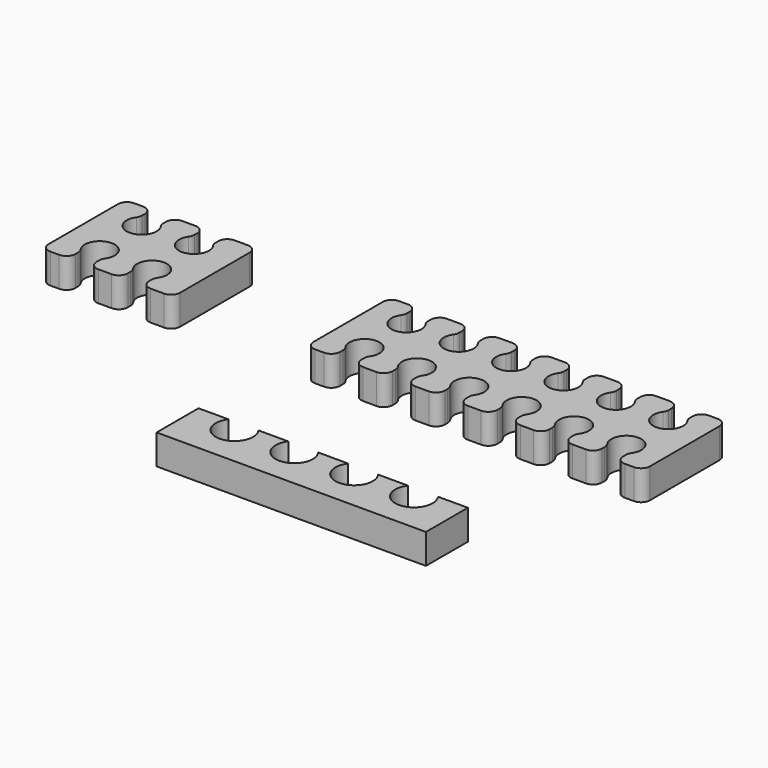
from build123d import *

# Parameters (mm, degrees)
F1_DEPTH = 4


with BuildPart() as f1:
    # F0 (on Top) → F1 (new body)
    with BuildSketch(Plane.XY):
        with BuildLine():
            ThreePointArc((8, 7.004538), (6.003411, 3), (4.006822, 7.004538))
            Line((4.006822, 7.004538), (0, 7.004538))
            Line((0, 7.004538), (0, 0))
            Line((0, 0), (36.006822, 0))
            Line((36.006822, 0), (36.006822, 7.004538))
            Line((36.006822, 7.004538), (32, 7.004538))
            ThreePointArc((32, 7.004538), (30.003411, 3), (28.006822, 7.004538))
            Line((28.006822, 7.004538), (24, 7.004538))
            ThreePointArc((24, 7.004538), (22.003411, 3), (20.006822, 7.004538))
            Line((20.006822, 7.004538), (16, 7.004538))
            ThreePointArc((16, 7.004538), (14.003411, 3), (12.006822, 7.004538))
            Line((12.006822, 7.004538), (8, 7.004538))
        make_face()
        with BuildLine():
            ThreePointArc((6.633883, 36.65344), (5, 33.5), (3.366117, 36.65344))
            ThreePointArc((3.366117, 36.65344), (3.529551, 36.982459), (3.585786, 37.345505))
            Line((3.585786, 37.345505), (3.585786, 37.8))
            ThreePointArc((3.585786, 37.8), (3.234315, 38.648528), (2.385786, 39))
            Line((2.385786, 39), (1.5, 39))
            Line((1.5, 39), (1.2, 39))
            ThreePointArc((1.2, 39), (0.351472, 38.648528), (0, 37.8))
            Line((0, 37.8), (0, 26.2))
            ThreePointArc((0, 26.2), (0.351472, 25.351472), (1.2, 25))
            Line((1.2, 25), (1.5, 25))
            Line((1.5, 25), (2.385786, 25))
            ThreePointArc((2.385786, 25), (3.234315, 25.351472), (3.585786, 26.2))
            Line((3.585786, 26.2), (3.585786, 26.654495))
            ThreePointArc((3.585786, 26.654495), (3.529551, 27.017541), (3.366117, 27.34656))
            ThreePointArc((3.366117, 27.34656), (5, 30.5), (6.633883, 27.34656))
            ThreePointArc((6.633883, 27.34656), (6.470449, 27.017541), (6.414214, 26.654495))
            Line((6.414214, 26.654495), (6.414214, 26.2))
            ThreePointArc((6.414214, 26.2), (6.765685, 25.351472), (7.614214, 25))
            Line((7.614214, 25), (8.5, 25))
            Line((8.5, 25), (9.385786, 25))
            ThreePointArc((9.385786, 25), (10.234315, 25.351472), (10.585786, 26.2))
            Line((10.585786, 26.2), (10.585786, 26.654495))
            ThreePointArc((10.585786, 26.654495), (10.529551, 27.017541), (10.366117, 27.34656))
            ThreePointArc((10.366117, 27.34656), (12, 30.5), (13.633883, 27.34656))
            ThreePointArc((13.633883, 27.34656), (13.470449, 27.017541), (13.414214, 26.654495))
            Line((13.414214, 26.654495), (13.414214, 26.2))
            ThreePointArc((13.414214, 26.2), (13.765685, 25.351472), (14.614214, 25))
            Line((14.614214, 25), (15.5, 25))
            Line((15.5, 25), (16.385786, 25))
            ThreePointArc((16.385786, 25), (17.234315, 25.351472), (17.585786, 26.2))
            Line((17.585786, 26.2), (17.585786, 26.654495))
            ThreePointArc((17.585786, 26.654495), (17.529551, 27.017541), (17.366117, 27.34656))
            ThreePointArc((17.366117, 27.34656), (19, 30.5), (20.633883, 27.34656))
            ThreePointArc((20.633883, 27.34656), (20.470449, 27.017541), (20.414214, 26.654495))
            Line((20.414214, 26.654495), (20.414214, 26.2))
            ThreePointArc((20.414214, 26.2), (20.765685, 25.351472), (21.614214, 25))
            Line((21.614214, 25), (22.5, 25))
            Line((22.5, 25), (23.385786, 25))
            ThreePointArc((23.385786, 25), (24.234315, 25.351472), (24.585786, 26.2))
            Line((24.585786, 26.2), (24.585786, 26.654495))
            ThreePointArc((24.585786, 26.654495), (24.529551, 27.017541), (24.366117, 27.34656))
            ThreePointArc((24.366117, 27.34656), (26, 30.5), (27.633883, 27.34656))
            ThreePointArc((27.633883, 27.34656), (27.470449, 27.017541), (27.414214, 26.654495))
            Line((27.414214, 26.654495), (27.414214, 26.2))
            ThreePointArc((27.414214, 26.2), (27.765685, 25.351472), (28.614214, 25))
            Line((28.614214, 25), (29.5, 25))
            Line((29.5, 25), (30.385786, 25))
            ThreePointArc((30.385786, 25), (31.234315, 25.351472), (31.585786, 26.2))
            Line((31.585786, 26.2), (31.585786, 26.654495))
            ThreePointArc((31.585786, 26.654495), (31.529551, 27.017541), (31.366117, 27.34656))
            ThreePointArc((31.366117, 27.34656), (33, 30.5), (34.633883, 27.34656))
            ThreePointArc((34.633883, 27.34656), (34.470449, 27.017541), (34.414214, 26.654495))
            Line((34.414214, 26.654495), (34.414214, 26.2))
            ThreePointArc((34.414214, 26.2), (34.765685, 25.351472), (35.614214, 25))
            Line((35.614214, 25), (36.5, 25))
            Line((36.5, 25), (37.385786, 25))
            ThreePointArc((37.385786, 25), (38.234315, 25.351472), (38.585786, 26.2))
            Line((38.585786, 26.2), (38.585786, 26.654495))
            ThreePointArc((38.585786, 26.654495), (38.529551, 27.017541), (38.366117, 27.34656))
            ThreePointArc((38.366117, 27.34656), (40, 30.5), (41.633883, 27.34656))
            ThreePointArc((41.633883, 27.34656), (41.470449, 27.017541), (41.414214, 26.654495))
            Line((41.414214, 26.654495), (41.414214, 26.2))
            ThreePointArc((41.414214, 26.2), (41.765685, 25.351472), (42.614214, 25))
            Line((42.614214, 25), (43.5, 25))
            Line((43.5, 25), (43.8, 25))
            ThreePointArc((43.8, 25), (44.648528, 25.351472), (45, 26.2))
            Line((45, 26.2), (45, 37.8))
            ThreePointArc((45, 37.8), (44.648528, 38.648528), (43.8, 39))
            Line((43.8, 39), (43.5, 39))
            Line((43.5, 39), (42.614214, 39))
            ThreePointArc((42.614214, 39), (41.765685, 38.648528), (41.414214, 37.8))
            Line((41.414214, 37.8), (41.414214, 37.345505))
            ThreePointArc((41.414214, 37.345505), (41.470449, 36.982459), (41.633883, 36.65344))
            ThreePointArc((41.633883, 36.65344), (40, 33.5), (38.366117, 36.65344))
            ThreePointArc((38.366117, 36.65344), (38.529551, 36.982459), (38.585786, 37.345505))
            Line((38.585786, 37.345505), (38.585786, 37.8))
            ThreePointArc((38.585786, 37.8), (38.234315, 38.648528), (37.385786, 39))
            Line((37.385786, 39), (36.5, 39))
            Line((36.5, 39), (35.614214, 39))
            ThreePointArc((35.614214, 39), (34.765685, 38.648528), (34.414214, 37.8))
            Line((34.414214, 37.8), (34.414214, 37.345505))
            ThreePointArc((34.414214, 37.345505), (34.470449, 36.982459), (34.633883, 36.65344))
            ThreePointArc((34.633883, 36.65344), (33, 33.5), (31.366117, 36.65344))
            ThreePointArc((31.366117, 36.65344), (31.529551, 36.982459), (31.585786, 37.345505))
            Line((31.585786, 37.345505), (31.585786, 37.8))
            ThreePointArc((31.585786, 37.8), (31.234315, 38.648528), (30.385786, 39))
            Line((30.385786, 39), (29.5, 39))
            Line((29.5, 39), (28.614214, 39))
            ThreePointArc((28.614214, 39), (27.765685, 38.648528), (27.414214, 37.8))
            Line((27.414214, 37.8), (27.414214, 37.345505))
            ThreePointArc((27.414214, 37.345505), (27.470449, 36.982459), (27.633883, 36.65344))
            ThreePointArc((27.633883, 36.65344), (26, 33.5), (24.366117, 36.65344))
            ThreePointArc((24.366117, 36.65344), (24.529551, 36.982459), (24.585786, 37.345505))
            Line((24.585786, 37.345505), (24.585786, 37.8))
            ThreePointArc((24.585786, 37.8), (24.234315, 38.648528), (23.385786, 39))
            Line((23.385786, 39), (22.5, 39))
            Line((22.5, 39), (21.614214, 39))
            ThreePointArc((21.614214, 39), (20.765685, 38.648528), (20.414214, 37.8))
            Line((20.414214, 37.8), (20.414214, 37.345505))
            ThreePointArc((20.414214, 37.345505), (20.470449, 36.982459), (20.633883, 36.65344))
            ThreePointArc((20.633883, 36.65344), (19, 33.5), (17.366117, 36.65344))
            ThreePointArc((17.366117, 36.65344), (17.529551, 36.982459), (17.585786, 37.345505))
            Line((17.585786, 37.345505), (17.585786, 37.8))
            ThreePointArc((17.585786, 37.8), (17.234315, 38.648528), (16.385786, 39))
            Line((16.385786, 39), (15.5, 39))
            Line((15.5, 39), (14.614214, 39))
            ThreePointArc((14.614214, 39), (13.765685, 38.648528), (13.414214, 37.8))
            Line((13.414214, 37.8), (13.414214, 37.345505))
            ThreePointArc((13.414214, 37.345505), (13.470449, 36.982459), (13.633883, 36.65344))
            ThreePointArc((13.633883, 36.65344), (12, 33.5), (10.366117, 36.65344))
            ThreePointArc((10.366117, 36.65344), (10.529551, 36.982459), (10.585786, 37.345505))
            Line((10.585786, 37.345505), (10.585786, 37.8))
            ThreePointArc((10.585786, 37.8), (10.234315, 38.648528), (9.385786, 39))
            Line((9.385786, 39), (8.5, 39))
            Line((8.5, 39), (7.614214, 39))
            ThreePointArc((7.614214, 39), (6.765685, 38.648528), (6.414214, 37.8))
            Line((6.414214, 37.8), (6.414214, 37.345505))
            ThreePointArc((6.414214, 37.345505), (6.470449, 36.982459), (6.633883, 36.65344))
        make_face()
        with BuildLine():
            ThreePointArc((-31.815485, 26.654495), (-31.87172, 27.017541), (-32.035155, 27.34656))
            ThreePointArc((-32.035155, 27.34656), (-30.401271, 30.5), (-28.767388, 27.34656))
            ThreePointArc((-28.767388, 27.34656), (-28.930822, 27.017541), (-28.987058, 26.654495))
            Line((-28.987058, 26.654495), (-28.987058, 26.2))
            ThreePointArc((-28.987058, 26.2), (-28.635586, 25.351472), (-27.787058, 25))
            Line((-27.787058, 25), (-26.901271, 25))
            Line((-26.901271, 25), (-26.015485, 25))
            ThreePointArc((-26.015485, 25), (-25.166957, 25.351472), (-24.815485, 26.2))
            Line((-24.815485, 26.2), (-24.815485, 26.654495))
            ThreePointArc((-24.815485, 26.654495), (-24.87172, 27.017541), (-25.035155, 27.34656))
            ThreePointArc((-25.035155, 27.34656), (-23.401271, 30.5), (-21.767388, 27.34656))
            ThreePointArc((-21.767388, 27.34656), (-21.930822, 27.017541), (-21.987058, 26.654495))
            Line((-21.987058, 26.654495), (-21.987058, 26.2))
            ThreePointArc((-21.987058, 26.2), (-21.635586, 25.351472), (-20.787058, 25))
            Line((-20.787058, 25), (-19.901271, 25))
            Line((-19.901271, 25), (-19.015485, 25))
            ThreePointArc((-19.015485, 25), (-18.166957, 25.351472), (-17.815485, 26.2))
            Line((-17.815485, 26.2), (-17.815485, 37.8))
            ThreePointArc((-17.815485, 37.8), (-18.166957, 38.648528), (-19.015485, 39))
            Line((-19.015485, 39), (-19.901271, 39))
            Line((-19.901271, 39), (-20.787058, 39))
            ThreePointArc((-20.787058, 39), (-21.635586, 38.648528), (-21.987058, 37.8))
            Line((-21.987058, 37.8), (-21.987058, 37.345505))
            ThreePointArc((-21.987058, 37.345505), (-21.930822, 36.982459), (-21.767388, 36.65344))
            ThreePointArc((-21.767388, 36.65344), (-23.401271, 33.5), (-25.035155, 36.65344))
            ThreePointArc((-25.035155, 36.65344), (-24.87172, 36.982459), (-24.815485, 37.345505))
            Line((-24.815485, 37.345505), (-24.815485, 37.8))
            ThreePointArc((-24.815485, 37.8), (-25.166957, 38.648528), (-26.015485, 39))
            Line((-26.015485, 39), (-26.901271, 39))
            Line((-26.901271, 39), (-27.787058, 39))
            ThreePointArc((-27.787058, 39), (-28.635586, 38.648528), (-28.987058, 37.8))
            Line((-28.987058, 37.8), (-28.987058, 37.345505))
            ThreePointArc((-28.987058, 37.345505), (-28.930822, 36.982459), (-28.767388, 36.65344))
            ThreePointArc((-28.767388, 36.65344), (-30.401271, 33.5), (-32.035155, 36.65344))
            ThreePointArc((-32.035155, 36.65344), (-31.87172, 36.982459), (-31.815485, 37.345505))
            Line((-31.815485, 37.345505), (-31.815485, 37.8))
            ThreePointArc((-31.815485, 37.8), (-32.166957, 38.648528), (-33.015485, 39))
            Line((-33.015485, 39), (-33.901271, 39))
            Line((-33.901271, 39), (-34.201271, 39))
            ThreePointArc((-34.201271, 39), (-35.049799, 38.648528), (-35.401271, 37.8))
            Line((-35.401271, 37.8), (-35.401271, 26.2))
            ThreePointArc((-35.401271, 26.2), (-35.049799, 25.351472), (-34.201271, 25))
            Line((-34.201271, 25), (-33.901271, 25))
            Line((-33.901271, 25), (-33.015485, 25))
            ThreePointArc((-33.015485, 25), (-32.166957, 25.351472), (-31.815485, 26.2))
            Line((-31.815485, 26.2), (-31.815485, 26.654495))
        make_face()
    extrude(amount=F1_DEPTH)


solid = f1.part
